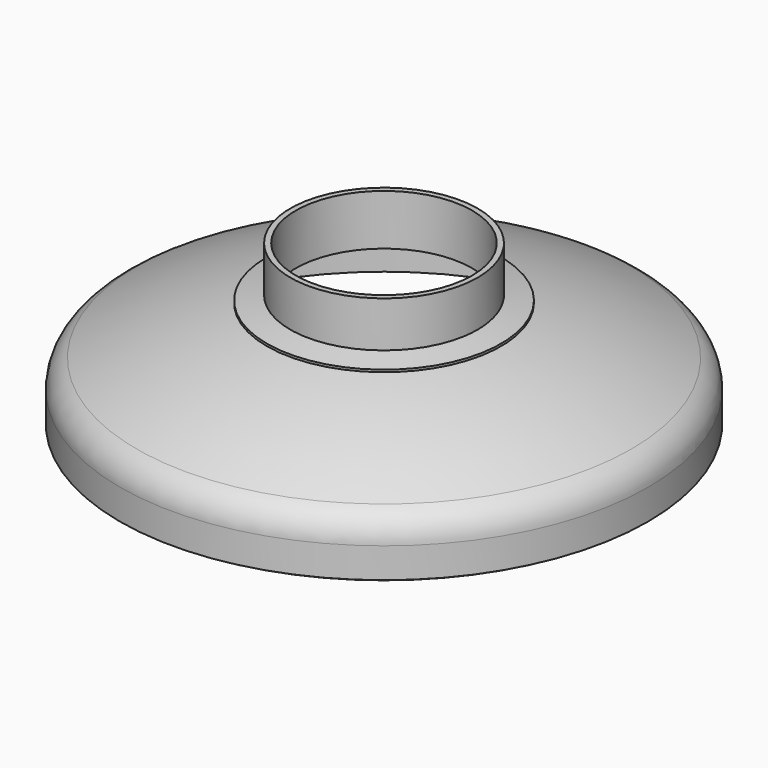
from build123d import *

# Parameters (mm, degrees)
F3_R     = 254
F3_R_2   = 238.91
F4_DEPTH = 242.5406181461
F5_DEPTH = 350


with BuildPart() as f1:
    # F0 (on Front) → F1 (revolve)
    with BuildSketch(Plane.XZ):
        with BuildLine():
            Line((716, -81.9585481157), (716, 0))
            ThreePointArc((716, 0), (703.6808103428, 44.3524315818), (670.2526002972, 75.9982116192))
            ThreePointArc((670.2526002972, 75.9982116192), (345.316734424, 200.2807281831), (0, 242.5396181461))
            Line((0, 242.5396181461), (0, 232.5396181461))
            ThreePointArc((0, 232.5396181461), (342.9053047144, 190.5758321632), (665.5720653789, 67.1612102681))
            ThreePointArc((665.5720653789, 67.1612102681), (695.1132742565, 39.1951720956), (706, 0))
            Line((706, 0), (706, -86))
            Line((706, -86), (709, -86))
            Line((709, -86), (716, -81.9585481157))
        make_face()
    revolve(axis=Axis((0, 0, 20.1172269881), (0, 0, -1)))

    # F3 (on Top) → F4 (cut, through all)
    with BuildSketch(Plane.XY):
        Circle(F3_R)
        Circle(F3_R_2, mode=Mode.SUBTRACT)
        Circle(F3_R_2)
    extrude(amount=F4_DEPTH, mode=Mode.SUBTRACT)


with BuildPart() as f2:
    # F0 (on Front) → F2 (revolve)
    with BuildSketch(Plane.XZ):
        with BuildLine():
            ThreePointArc((-317.5, 206.8983650303), (-285.8231779815, 213.7249626137), (-254, 219.8330581365))
            Line((-254, 219.8330581365), (-254, 225.9293171336))
            ThreePointArc((-254, 225.9293171336), (-285.8225432703, 219.8477724397), (-317.5, 213.0508480477))
            Line((-317.5, 213.0508480477), (-317.5, 206.8983650303))
        make_face()
    revolve(axis=Axis((0, 0, 20.1172269881), (0, 0, -1)))


with BuildPart() as f5:
    # F3 (on Top) → F5 (new body)
    with BuildSketch(Plane.XY):
        Circle(F3_R)
        Circle(F3_R_2, mode=Mode.SUBTRACT)
    extrude(amount=F5_DEPTH)

    # F0 (on Front) → F6 (revolve, cut)
    with BuildSketch(Plane.XZ):
        with BuildLine():
            ThreePointArc((665.5720653789, 67.1612102681), (342.9053047144, 190.5758321632), (0, 232.5396181461))
            Line((0, 232.5396181461), (0, 0))
            Line((0, 0), (706, 0))
            ThreePointArc((706, 0), (695.1132742565, 39.1951720956), (665.5720653789, 67.1612102681))
        make_face()
    revolve(axis=Axis((0, 0, 116.2698090731), (0, 0, -1)), mode=Mode.SUBTRACT)


solid = Compound([f1.part, f2.part, f5.part])
